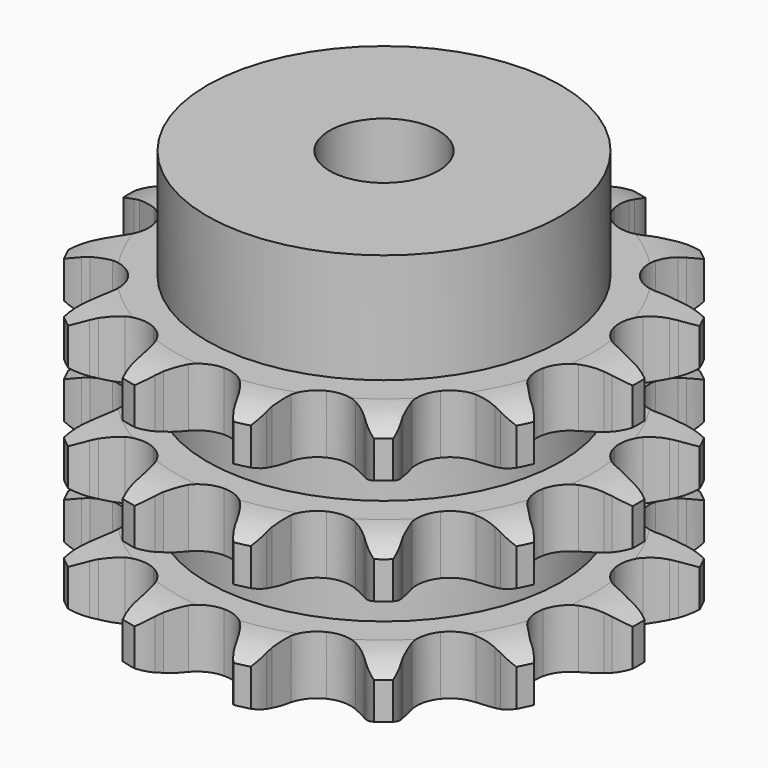
from build123d import *

# Parameters (mm, degrees)
PAD_DEPTH         = 49.8
SKETCH001_R       = 32.5
PAD001_DEPTH      = 70
SKETCH002_R       = 10
POCKET_DEPTH      = 0.001
POCKET_DEPTH_BACK = 70.001


with BuildPart() as part:
    # Sprocket → Pad (new body)
    with BuildSketch(Plane.XY):
        with BuildLine():
            ThreePointArc((-10.82608, 47.432157), (-8.804038, 45.633965), (-7.331265, 43.363922))
            Line((-7.331265, 43.363922), (-6.775639, 42.187726))
            ThreePointArc((-6.775639, 42.187726), (-5.849087, 40.50134), (-4.723923, 38.940442))
            ThreePointArc((-4.723923, 38.940442), (-2.613784, 37.289701), (0, 36.701686))
            ThreePointArc((0, 36.701686), (2.613784, 37.289701), (4.723923, 38.940442))
            ThreePointArc((4.723923, 38.940442), (5.849087, 40.50134), (6.775639, 42.187726))
            Line((6.775639, 42.187726), (7.331265, 43.363922))
            ThreePointArc((7.331265, 43.363922), (8.804038, 45.633965), (10.82608, 47.432157))
            ThreePointArc((10.82608, 47.432157), (11.867671, 44.93471), (12.209659, 42.25046))
            Line((12.209659, 42.25046), (12.199929, 40.949668))
            ThreePointArc((12.199929, 40.949668), (12.303027, 39.02827), (12.639517, 37.133759))
            ThreePointArc((12.639517, 37.133759), (13.824457, 34.730938), (15.924265, 33.067077))
            ThreePointArc((15.924265, 33.067077), (18.534333, 32.462781), (21.151732, 33.034492))
            Line((21.151732, 33.034492), (24.409208, 35.069989))
            ThreePointArc((24.409208, 35.069989), (24.906225, 35.489743), (25.420142, 35.888627))
            ThreePointArc((25.420142, 35.888627), (27.731999, 37.294853), (30.334003, 38.037637))
            ThreePointArc((30.334003, 38.037637), (30.188842, 35.335586), (29.33231, 32.768777))
            Line((29.33231, 32.768777), (28.759151, 31.601025))
            ThreePointArc((28.759151, 31.601025), (28.018376, 29.825173), (27.499545, 27.97228))
            ThreePointArc((27.499545, 27.97228), (27.524594, 25.293287), (28.694534, 22.883127))
            ThreePointArc((28.694534, 22.883127), (30.78393, 21.206209), (33.390181, 20.585656))
            Line((33.390181, 20.585656), (37.208234, 21.00621))
            ThreePointArc((37.208234, 21.00621), (37.838155, 21.168748), (38.474248, 21.305149))
            ThreePointArc((38.474248, 21.305149), (41.167298, 21.569038), (43.833905, 21.109296))
            ThreePointArc((43.833905, 21.109296), (42.530743, 18.737815), (40.645338, 16.796835))
            Line((40.645338, 16.796835), (39.622271, 15.993411))
            ThreePointArc((39.622271, 15.993411), (38.184342, 14.714834), (36.912952, 13.270548))
            ThreePointArc((36.912952, 13.270548), (35.773149, 10.84599), (35.781499, 8.166894))
            ThreePointArc((35.781499, 8.166894), (36.936392, 5.749488), (39.015295, 4.059579))
            Line((39.015295, 4.059579), (42.637713, 2.781893))
            ThreePointArc((42.637713, 2.781893), (43.275776, 2.655022), (43.908058, 2.501926))
            ThreePointArc((43.908058, 2.501926), (46.448909, 1.57121), (48.651964, 0))
            ThreePointArc((48.651964, 0), (46.448909, -1.57121), (43.908058, -2.501926))
            Line((43.908058, -2.501926), (42.637713, -2.781893))
            ThreePointArc((42.637713, -2.781893), (40.787431, -3.309958), (39.015295, -4.059579))
            ThreePointArc((39.015295, -4.059579), (36.936392, -5.749488), (35.781499, -8.166894))
            ThreePointArc((35.781499, -8.166894), (35.773149, -10.84599), (36.912952, -13.270548))
            Line((36.912952, -13.270548), (39.622271, -15.993411))
            ThreePointArc((39.622271, -15.993411), (40.142098, -16.384563), (40.645338, -16.796835))
            ThreePointArc((40.645338, -16.796835), (42.530743, -18.737815), (43.833905, -21.109296))
            ThreePointArc((43.833905, -21.109296), (41.167298, -21.569038), (38.474248, -21.305149))
            Line((38.474248, -21.305149), (37.208234, -21.00621))
            ThreePointArc((37.208234, -21.00621), (35.312069, -20.679172), (33.390181, -20.585656))
            ThreePointArc((33.390181, -20.585656), (30.78393, -21.206209), (28.694534, -22.883127))
            ThreePointArc((28.694534, -22.883127), (27.524594, -25.293287), (27.499545, -27.97228))
            Line((27.499545, -27.97228), (28.759151, -31.601025))
            ThreePointArc((28.759151, -31.601025), (29.057785, -32.178984), (29.33231, -32.768777))
            ThreePointArc((29.33231, -32.768777), (30.188842, -35.335586), (30.334003, -38.037637))
            ThreePointArc((30.334003, -38.037637), (27.731999, -37.294853), (25.420142, -35.888627))
            Line((25.420142, -35.888627), (24.409208, -35.069989))
            ThreePointArc((24.409208, -35.069989), (22.842718, -33.952622), (21.151732, -33.034492))
            ThreePointArc((21.151732, -33.034492), (18.534333, -32.462781), (15.924265, -33.067077))
            ThreePointArc((15.924265, -33.067077), (13.824457, -34.730938), (12.639517, -37.133759))
            Line((12.639517, -37.133759), (12.199929, -40.949668))
            ThreePointArc((12.199929, -40.949668), (12.218221, -41.599963), (12.209659, -42.25046))
            ThreePointArc((12.209659, -42.25046), (11.867671, -44.93471), (10.82608, -47.432157))
            ThreePointArc((10.82608, -47.432157), (8.804038, -45.633965), (7.331265, -43.363922))
            Line((7.331265, -43.363922), (6.775639, -42.187726))
            ThreePointArc((6.775639, -42.187726), (5.849087, -40.50134), (4.723923, -38.940442))
            ThreePointArc((4.723923, -38.940442), (2.613784, -37.289701), (0, -36.701686))
            ThreePointArc((0, -36.701686), (-2.613784, -37.289701), (-4.723923, -38.940442))
            Line((-4.723923, -38.940442), (-6.775639, -42.187726))
            ThreePointArc((-6.775639, -42.187726), (-7.041311, -42.78156), (-7.331265, -43.363922))
            ThreePointArc((-7.331265, -43.363922), (-8.804038, -45.633965), (-10.82608, -47.432157))
            ThreePointArc((-10.82608, -47.432157), (-11.867671, -44.93471), (-12.209659, -42.25046))
            Line((-12.209659, -42.25046), (-12.199929, -40.949668))
            ThreePointArc((-12.199929, -40.949668), (-12.303027, -39.02827), (-12.639517, -37.133759))
            ThreePointArc((-12.639517, -37.133759), (-13.824457, -34.730938), (-15.924265, -33.067077))
            ThreePointArc((-15.924265, -33.067077), (-18.534333, -32.462781), (-21.151732, -33.034492))
            Line((-21.151732, -33.034492), (-24.409208, -35.069989))
            ThreePointArc((-24.409208, -35.069989), (-24.906225, -35.489743), (-25.420142, -35.888627))
            ThreePointArc((-25.420142, -35.888627), (-27.731999, -37.294853), (-30.334003, -38.037637))
            ThreePointArc((-30.334003, -38.037637), (-30.188842, -35.335586), (-29.33231, -32.768777))
            Line((-29.33231, -32.768777), (-28.759151, -31.601025))
            ThreePointArc((-28.759151, -31.601025), (-28.018376, -29.825173), (-27.499545, -27.97228))
            ThreePointArc((-27.499545, -27.97228), (-27.524594, -25.293287), (-28.694534, -22.883127))
            ThreePointArc((-28.694534, -22.883127), (-30.78393, -21.206209), (-33.390181, -20.585656))
            Line((-33.390181, -20.585656), (-37.208234, -21.00621))
            ThreePointArc((-37.208234, -21.00621), (-37.838155, -21.168748), (-38.474248, -21.305149))
            ThreePointArc((-38.474248, -21.305149), (-41.167298, -21.569038), (-43.833905, -21.109296))
            ThreePointArc((-43.833905, -21.109296), (-42.530743, -18.737815), (-40.645338, -16.796835))
            Line((-40.645338, -16.796835), (-39.622271, -15.993411))
            ThreePointArc((-39.622271, -15.993411), (-38.184342, -14.714834), (-36.912952, -13.270548))
            ThreePointArc((-36.912952, -13.270548), (-35.773149, -10.84599), (-35.781499, -8.166894))
            ThreePointArc((-35.781499, -8.166894), (-36.936392, -5.749488), (-39.015295, -4.059579))
            Line((-39.015295, -4.059579), (-42.637713, -2.781893))
            ThreePointArc((-42.637713, -2.781893), (-43.275776, -2.655022), (-43.908058, -2.501926))
            ThreePointArc((-43.908058, -2.501926), (-46.448909, -1.57121), (-48.651964, 0))
            ThreePointArc((-48.651964, 0), (-46.448909, 1.57121), (-43.908058, 2.501926))
            Line((-43.908058, 2.501926), (-42.637713, 2.781893))
            ThreePointArc((-42.637713, 2.781893), (-40.787431, 3.309958), (-39.015295, 4.059579))
            ThreePointArc((-39.015295, 4.059579), (-36.936392, 5.749488), (-35.781499, 8.166894))
            ThreePointArc((-35.781499, 8.166894), (-35.773149, 10.84599), (-36.912952, 13.270548))
            Line((-36.912952, 13.270548), (-39.622271, 15.993411))
            ThreePointArc((-39.622271, 15.993411), (-40.142098, 16.384563), (-40.645338, 16.796835))
            ThreePointArc((-40.645338, 16.796835), (-42.530743, 18.737815), (-43.833905, 21.109296))
            ThreePointArc((-43.833905, 21.109296), (-41.167298, 21.569038), (-38.474248, 21.305149))
            Line((-38.474248, 21.305149), (-37.208234, 21.00621))
            ThreePointArc((-37.208234, 21.00621), (-35.312069, 20.679172), (-33.390181, 20.585656))
            ThreePointArc((-33.390181, 20.585656), (-30.78393, 21.206209), (-28.694534, 22.883127))
            ThreePointArc((-28.694534, 22.883127), (-27.524594, 25.293287), (-27.499545, 27.97228))
            Line((-27.499545, 27.97228), (-28.759151, 31.601025))
            ThreePointArc((-28.759151, 31.601025), (-29.057785, 32.178984), (-29.33231, 32.768777))
            ThreePointArc((-29.33231, 32.768777), (-30.188842, 35.335586), (-30.334003, 38.037637))
            ThreePointArc((-30.334003, 38.037637), (-27.731999, 37.294853), (-25.420142, 35.888627))
            Line((-25.420142, 35.888627), (-24.409208, 35.069989))
            ThreePointArc((-24.409208, 35.069989), (-22.842718, 33.952622), (-21.151732, 33.034492))
            ThreePointArc((-21.151732, 33.034492), (-18.534333, 32.462781), (-15.924265, 33.067077))
            ThreePointArc((-15.924265, 33.067077), (-13.824457, 34.730938), (-12.639517, 37.133759))
            Line((-12.639517, 37.133759), (-12.199929, 40.949668))
            ThreePointArc((-12.199929, 40.949668), (-12.218221, 41.599963), (-12.209659, 42.25046))
            ThreePointArc((-12.209659, 42.25046), (-11.867671, 44.93471), (-10.82608, 47.432157))
        make_face()
    extrude(amount=PAD_DEPTH)

    # Sketch → Groove (revolve, cut)
    with BuildSketch(Plane.XZ):
        with BuildLine():
            ThreePointArc((38.314719, 0), (42.673618, 0.506758), (46.8, 2))
            Line((46.8, 2), (46.8, 8.8))
            ThreePointArc((46.8, 8.8), (42.673618, 10.293242), (38.314719, 10.8))
            Line((32.5, 10.8), (38.314719, 10.8))
            Line((32.5, 10.8), (32.5, 19.5))
            Line((32.5, 19.5), (38.314719, 19.5))
            ThreePointArc((38.314719, 19.5), (42.673618, 20.006758), (46.8, 21.5))
            Line((46.8, 28.3), (46.8, 21.5))
            ThreePointArc((46.8, 28.3), (42.673618, 29.793242), (38.314719, 30.3))
            Line((32.5, 30.3), (38.314719, 30.3))
            Line((32.5, 39), (32.5, 30.3))
            Line((38.314719, 39), (32.5, 39))
            ThreePointArc((38.314719, 39), (42.673618, 39.506758), (46.8, 41))
            Line((46.8, 41), (46.8, 47.8))
            ThreePointArc((46.8, 47.8), (42.673618, 49.293242), (38.314719, 49.8))
            Line((38.314719, 49.8), (56.8, 49.8))
            Line((56.8, 49.8), (56.8, 0))
            Line((38.314719, 0), (56.8, 0))
        make_face()
    revolve(axis=Axis((0, 0, 0), (0, 0, 1)), mode=Mode.SUBTRACT)

    # Sketch001 → Pad001 (join)
    with BuildSketch(Plane.XY):
        Circle(SKETCH001_R)
    extrude(amount=PAD001_DEPTH)

    # Sketch002 → Pocket (cut, two sides)
    with BuildSketch(Plane.XY) as pocket_sk:
        Circle(SKETCH002_R)
    extrude(amount=-POCKET_DEPTH, mode=Mode.SUBTRACT)
    extrude(pocket_sk.sketch, amount=POCKET_DEPTH_BACK, mode=Mode.SUBTRACT)


solid = part.part
